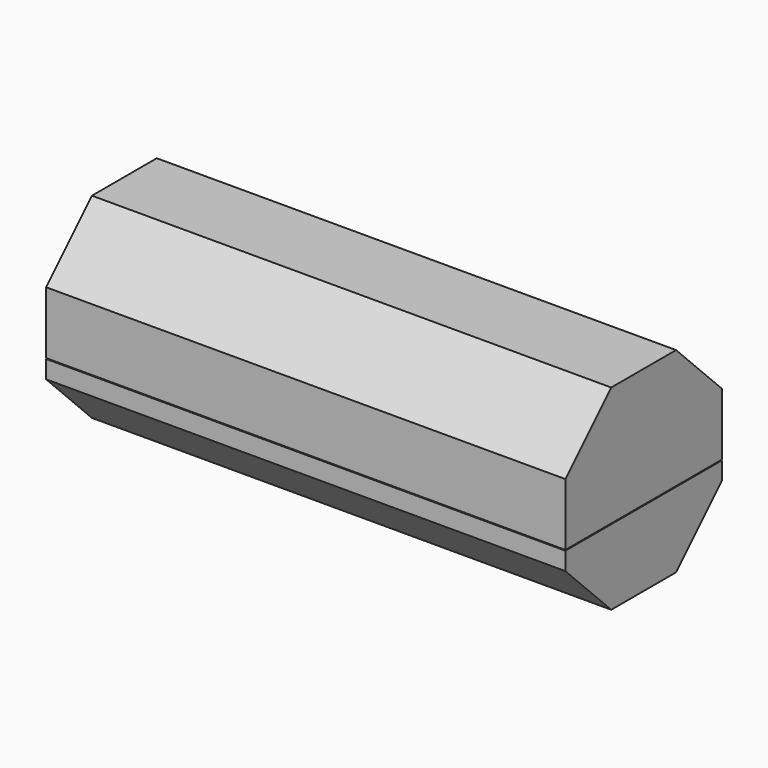
from build123d import *

# Parameters (mm, degrees)
F0_W      = 69
F0_H      = 26
F1_DEPTH  = 15
F4_DEPTH  = 65
F5_W      = 69
F5_H      = 26
F5_W_2    = 66.8
F5_H_2    = 23.8
F6_DEPTH  = 5
F8_W      = 69
F8_H      = 26
F9_DEPTH  = 10.9
F10_W     = 69
F10_H     = 26
F10_W_2   = 67.2
F10_H_2   = 24.2
F11_DEPTH = 5
F13_DEPTH = 65
F15_DEPTH = 69.001
F17_DEPTH = 69.001


with BuildPart() as f1:
    # F0 (on Top) → F1 (new body)
    with BuildSketch(Plane.XY):
        Rectangle(F0_W, F0_H)
    extrude(amount=F1_DEPTH)

    # F3 (on offset) → F4 (cut)
    with BuildSketch(Plane.YZ.offset(32.5)):
        Polygon((11, 15), (-11, 15), (-11, 8.4436508139), (-4.5563491861, 2), (4.5563491861, 2), (11, 8.4436508139), align=None)
    extrude(amount=-F4_DEPTH, mode=Mode.SUBTRACT)

    # F5 (on face) → F6 (cut)
    with BuildSketch(Plane.XY.offset(15)):
        Rectangle(F5_W, F5_H)
        Rectangle(F5_W_2, F5_H_2, mode=Mode.SUBTRACT)
    extrude(amount=-F6_DEPTH, mode=Mode.SUBTRACT)

    # F14 (on face) → F15 (cut, through all)
    with BuildSketch(Plane.YZ.offset(34.5)):
        Polygon((5.3847763109, 0), (13, 0), (13, 7.6152236891), align=None)
        Polygon((-5.3847763109, 0), (-13, 7.6152236891), (-13, 0), align=None)
    extrude(amount=-F15_DEPTH, mode=Mode.SUBTRACT)


with BuildPart() as f9:
    # F8 (on offset) → F9 (new body)
    with BuildSketch(Plane.XY.offset(15.1)):
        Rectangle(F8_W, F8_H)
    extrude(amount=F9_DEPTH)

    # F10 (on face) → F11 (join)
    with BuildSketch(Plane(origin=(0, 0, 15.1), x_dir=(1, 0, 0), z_dir=(0, 0, -1))):
        Rectangle(F10_W, F10_H)
        Rectangle(F10_W_2, F10_H_2, mode=Mode.SUBTRACT)
    extrude(amount=F11_DEPTH)

    # F12 (on offset) → F13 (cut)
    with BuildSketch(Plane.YZ.offset(32.5)):
        Polygon((4.5563491861, 24), (-4.5563491861, 24), (-11, 17.5563491861), (-11, 8.4436508139), (11, 8.4436508139), (11, 17.5563491861), align=None)
    extrude(amount=-F13_DEPTH, mode=Mode.SUBTRACT)

    # F16 (on face) → F17 (cut, through all)
    with BuildSketch(Plane.YZ.offset(34.5)):
        Polygon((-13, 26), (-13, 18.3847763109), (-5.3847763109, 26), align=None)
        Polygon((5.3847763109, 26), (13, 18.3847763109), (13, 26), align=None)
    extrude(amount=-F17_DEPTH, mode=Mode.SUBTRACT)


solid = Compound([f1.part, f9.part])
